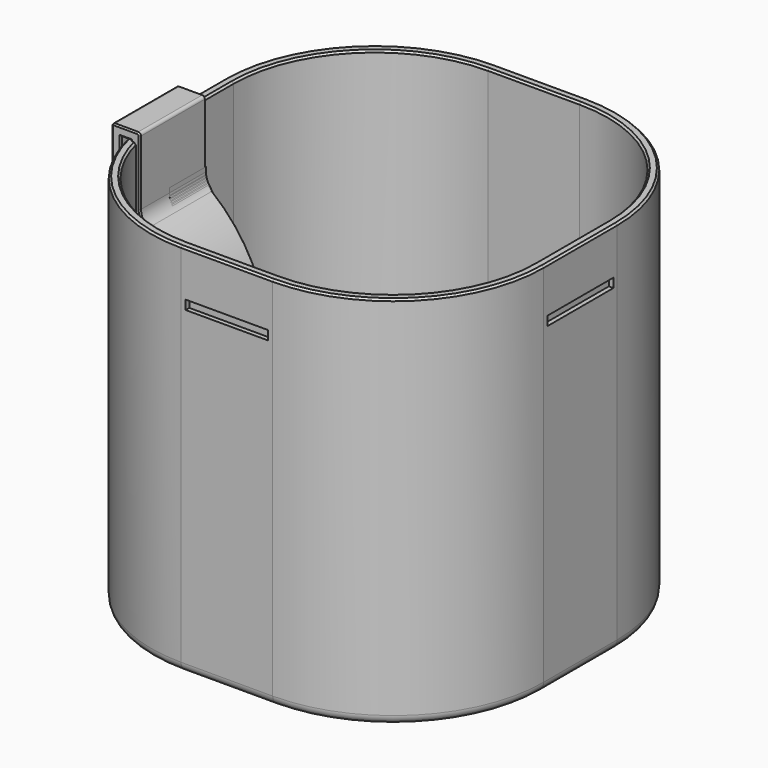
from build123d import *

# Parameters (mm, degrees)
PAD_DEPTH          = 80
THICKNESS_T        = 2
SKETCH001_W        = 18
SKETCH001_H        = 2
POCKET_DEPTH       = 1
POLARPATTERN_COUNT = 4
HOLE_D             = 5
HOLE_DEPTH         = 25
HOLE_CSINK_D       = 8
HOLE_CSINK_ANGLE   = 90
CHAMFER001_SIZE    = 0.4
PAD001_DEPTH       = 18
PAD003_DEPTH       = 18
CHAMFER_SIZE       = 0.3
PAD002_DEPTH       = 10


with BuildPart() as body:
    # Sketch → Pad (new body)
    with BuildSketch(Plane.XY):
        with BuildLine():
            Line((-40.857864, 10), (-40.857864, -10))
            ThreePointArc((-40.857864, -10), (-31.819805, -31.819805), (-10, -40.857864))
            Line((-10, -40.857864), (10, -40.857864))
            ThreePointArc((10, -40.857864), (31.819805, -31.819805), (40.857864, -10))
            Line((40.857864, -10), (40.857864, 10))
            ThreePointArc((40.857864, 10), (31.819805, 31.819805), (10, 40.857864))
            Line((10, 40.857864), (-10, 40.857864))
            ThreePointArc((-10, 40.857864), (-31.819805, 31.819805), (-40.857864, 10))
        make_face()
    extrude(amount=PAD_DEPTH)

    # Thickness
    thickness_openings = [body.faces().sort_by_distance(p)[0] for p in [
        (0, 0, 80),
    ]]
    offset(amount=THICKNESS_T, openings=thickness_openings)

    # Sketch001 (on Face13 of Thickness) → Pocket (cut)
    with BuildSketch(Plane.XZ.offset(42.857864)):
        with Locations((0, 69)):
            Rectangle(SKETCH001_W, SKETCH001_H)
    pocket = extrude(amount=-POCKET_DEPTH, mode=Mode.SUBTRACT)

    # PolarPattern: Pocket ×4 about axis
    polarpattern_axis = Axis((0, 0, 0), (0, 0, 1))
    for i in range(1, POLARPATTERN_COUNT):
        add(pocket.rotate(polarpattern_axis, i * 360 / POLARPATTERN_COUNT), mode=Mode.SUBTRACT)

    # Hole
    with Locations(Plane.XY):
        with Locations((-20, 0), (20, 0)):
            CounterSinkHole(HOLE_D / 2, HOLE_CSINK_D / 2, depth=HOLE_DEPTH, counter_sink_angle=HOLE_CSINK_ANGLE)

    # Chamfer001
    chamfer001_edges = [body.edges().sort_by_distance(p)[0] for p in [
        (-40.857864, 0, 80),
        (-31.819805, 31.819805, 80),
        (0, 40.857864, 80),
        (31.819805, 31.819805, 80),
        (40.857864, 0, 80),
        (31.819805, -31.819805, 80),
        (0, -40.857864, 80),
        (-31.819805, -31.819805, 80),
        (0, 42.857864, 80),
        (-33.234019, 33.234019, 80),
        (-42.857864, 0, 80),
        (-33.234019, -33.234019, 80),
        (0, -42.857864, 80),
        (33.234019, -33.234019, 80),
        (42.857864, 0, 80),
        (33.234019, 33.234019, 80),
    ]]
    chamfer(chamfer001_edges, length=CHAMFER001_SIZE)


with BuildPart() as wing:
    # Sketch002 → Pad001 (new body)
    with BuildSketch(Plane.XZ):
        with BuildLine():
            Line((-45.057864, 81.5), (-45.057864, 69))
            ThreePointArc((-45.057864, 69), (-44.882128, 68.575736), (-44.457864, 68.4))
            Line((-44.457864, 68.4), (-42.857864, 68.4))
            ThreePointArc((-42.857864, 68.4), (-42.4336, 68.575736), (-42.257864, 69))
            Line((-42.257864, 69), (-42.257864, 69.4))
            Line((-42.257864, 69.4), (-43.057864, 69.4))
            Line((-43.057864, 69.4), (-43.057864, 80.1))
            Line((-43.057864, 80.1), (-40.857864, 80.1))
            Line((-40.857864, 80.1), (-40.857864, 68.4))
            Line((-40.857864, 68.4), (-38.857864, 68.4))
            Line((-38.857864, 68.4), (-38.857864, 81.5))
            ThreePointArc((-38.857864, 81.5), (-39.0336, 81.924264), (-39.457864, 82.1))
            Line((-39.457864, 82.1), (-44.457864, 82.1))
            ThreePointArc((-44.457864, 82.1), (-44.882128, 81.924264), (-45.057864, 81.5))
        make_face()
    extrude(amount=PAD001_DEPTH)

    # Sketch003 → Pad003 (join)
    with BuildSketch(Plane(origin=(0, 0, 0.2), x_dir=(1, 0, 0), z_dir=(0, -1, 0))):
        with BuildLine():
            Line((-38.857864, 67.2), (-38.857864, 68.2))
            Line((-38.857864, 68.2), (-40.857864, 68.2))
            ThreePointArc((-40.857864, 68.2), (-40.321277, 65.94657), (-38.826685, 64.176805))
            ThreePointArc((-38.857864, 12.656924), (-25.827146, 38.408988), (-38.826685, 64.176805))
            ThreePointArc((-38.857864, 12.656924), (-38.944559, 12.086695), (-38.37433, 12))
            ThreePointArc((-38.37433, 12), (-25.017751, 37.785152), (-37.353461, 64.07398))
            ThreePointArc((-38.857864, 67.2), (-38.462194, 65.465409), (-37.353461, 64.07398))
        make_face()
    extrude(amount=PAD003_DEPTH)

    # Chamfer
    chamfer_edges = [wing.edges().sort_by_distance(p)[0] for p in [
        (-45.057864, -18, 75.25),
        (-44.882128, -18, 68.575736),
        (-43.657864, -18, 68.4),
        (-42.4336, -18, 68.575736),
        (-42.257864, -18, 69.2),
        (-42.657864, -18, 69.4),
        (-43.057864, -18, 74.75),
        (-41.957864, -18, 80.1),
        (-40.857864, -18, 74.25),
        (-40.321277, -18, 66.14657),
        (-25.827146, -18, 38.608988),
        (-38.944559, -18, 12.286695),
        (-25.017751, -18, 37.985152),
        (-38.462194, -18, 65.665409),
        (-38.857864, -18, 74.45),
        (-39.0336, -18, 81.924264),
        (-41.957864, -18, 82.1),
        (-44.882128, -18, 81.924264),
        (-45.057864, 0, 75.25),
        (-44.882128, 0, 81.924264),
        (-41.957864, 0, 82.1),
        (-39.0336, 0, 81.924264),
        (-38.857864, 0, 74.45),
        (-38.462194, 0, 65.665409),
        (-25.017751, 0, 37.985152),
        (-38.944559, 0, 12.286695),
        (-25.827146, 0, 38.608988),
        (-40.321277, 0, 66.14657),
        (-40.857864, 0, 74.25),
        (-41.957864, 0, 80.1),
        (-43.057864, 0, 74.75),
        (-42.657864, 0, 69.4),
        (-42.257864, 0, 69.2),
        (-42.4336, 0, 68.575736),
        (-43.657864, 0, 68.4),
        (-44.882128, 0, 68.575736),
    ]]
    chamfer(chamfer_edges, length=CHAMFER_SIZE)


with BuildPart() as body002:
    # Sketch004 → Pad002 (new body)
    with BuildSketch(Plane.XZ):
        with BuildLine():
            Line((-38.857864, 67.4), (-38.857864, 68.4))
            Line((-38.857864, 68.4), (-40.857864, 68.4))
            ThreePointArc((-40.857864, 68.4), (-40.586132, 66.77412), (-39.80047, 65.324962))
            ThreePointArc((-39.80047, 25.964473), (-33.033147, 45.644717), (-39.80047, 65.324962))
            ThreePointArc((-39.80047, 25.964473), (-39.696362, 25.122356), (-38.854245, 25.226464))
            ThreePointArc((-38.854245, 25.226464), (-31.839057, 45.0183), (-38.102518, 65.060722))
            ThreePointArc((-38.857864, 67.4), (-38.664347, 66.170898), (-38.102518, 65.060722))
        make_face()
    extrude(amount=PAD002_DEPTH)


solid = Compound([body.part, wing.part, body002.part])
